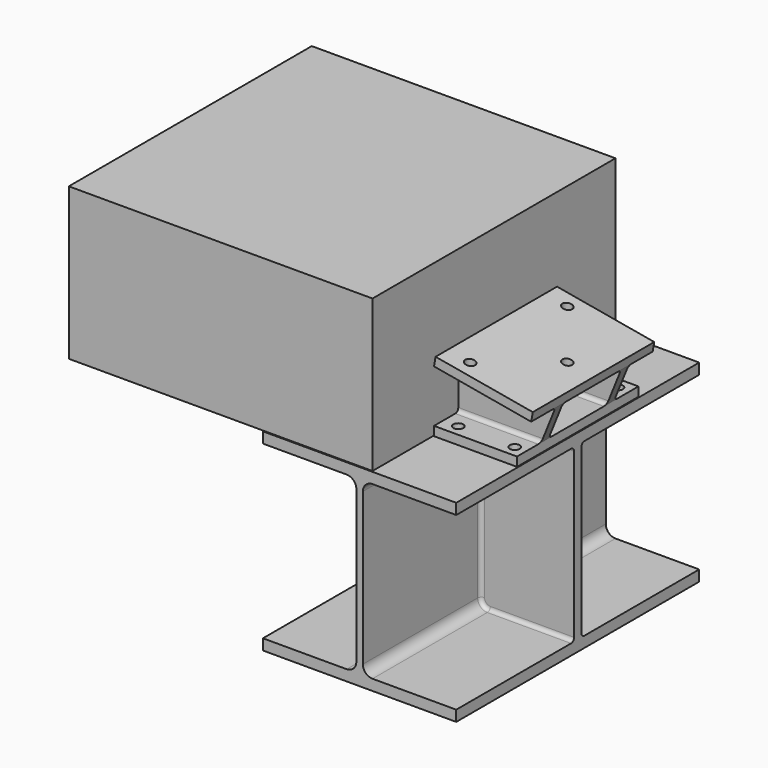
from build123d import *

# Parameters (mm, degrees)
F1_DEPTH  = 400
F3_W      = 400
F3_H      = 400
F4_DEPTH  = 200
F5_W      = 109.3
F5_H      = 200
F6_DEPTH  = 12
F8_D      = 13.2
F8_DEPTH  = 12
F8_TIP    = 3.9656800856
F10_D     = 13.2
F10_DEPTH = 20
F10_TIP   = 3.9656800856
F15_DEPTH = 12
F16_W     = 130
F16_H     = 40
F16_H_2   = 12
F16_H_3   = 148
F17_DEPTH = 12
F18_R     = 5
F21_DEPTH = 6
F22_R     = 5
F24_D     = 13.2
F24_DEPTH = 12
F24_TIP   = 3.9656800856


with BuildPart() as f1:
    # F0 (on Front) → F1 (new body)
    with BuildSketch(Plane.XZ):
        with BuildLine():
            Line((127.3, 112.85), (127.3, 127.05))
            Line((127.3, 127.05), (-127.3, 127.05))
            Line((-127.3, 127.05), (-127.3, 112.85))
            Line((-127.3, 112.85), (-17, 112.85))
            ThreePointArc((-17, 112.85), (-8.0197438789, 109.1302561211), (-4.3, 100.15))
            Line((-4.3, 100.15), (-4.3, -100.15))
            ThreePointArc((-4.3, -100.15), (-8.0197438789, -109.1302561211), (-17, -112.85))
            Line((-17, -112.85), (-127.3, -112.85))
            Line((-127.3, -112.85), (-127.3, -127.05))
            Line((-127.3, -127.05), (127.3, -127.05))
            Line((127.3, -127.05), (127.3, -112.85))
            Line((127.3, -112.85), (17, -112.85))
            ThreePointArc((17, -112.85), (8.0197438789, -109.1302561211), (4.3, -100.15))
            Line((4.3, -100.15), (4.3, 100.15))
            ThreePointArc((4.3, 100.15), (8.0197438789, 109.1302561211), (17, 112.85))
            Line((17, 112.85), (127.3, 112.85))
        make_face()
    extrude(amount=F1_DEPTH)

    # F10
    with Locations(Plane.XY.offset(127.05)):
        with Locations((38, -285), (38, -115), (112.3, -285), (112.3, -115)):
            Hole(F10_D / 2, depth=F10_DEPTH)
            with Locations((0, 0, -(F10_DEPTH + F10_TIP / 2))):  # 118° drill point
                Cone(0, F10_D / 2, F10_TIP, mode=Mode.SUBTRACT)

    # F20 (on mid) → F21 (join, symmetric)
    with BuildSketch(Plane(origin=(0, -200, 0), x_dir=(-1, 0, 0), z_dir=(0, 1, 0))):
        with BuildLine():
            Line((-17, 112.85), (-127.3, 112.85))
            Line((-127.3, 112.85), (-127.3, -112.85))
            Line((-127.3, -112.85), (-17, -112.85))
            ThreePointArc((-17, -112.85), (-8.0197438789, -109.1302561211), (-4.3, -100.15))
            Line((-4.3, -100.15), (-4.3, 100.15))
            ThreePointArc((-4.3, 100.15), (-8.0197438789, 109.1302561211), (-17, 112.85))
        make_face()
    extrude(amount=F21_DEPTH, both=True)

    # F22
    f22_edges = [f1.edges().sort_by_distance(p)[0] for p in [
        (72.15, -194, 112.85),
        (4.3, -206, 0),
    ]]
    fillet(f22_edges, radius=F22_R)


with BuildPart() as f4:
    # F3 (on offset) → F4 (new body)
    with BuildSketch(Plane.XY.offset(128.05)):
        with Locations((-183, -200)):
            Rectangle(F3_W, F3_H)
    extrude(amount=F4_DEPTH)


with BuildPart() as f6:
    # F5 (on offset) → F6 (new body)
    with BuildSketch(Plane.XY.offset(128.05)):
        with Locations((72.65, -200)):
            Rectangle(F5_W, F5_H)
    extrude(amount=F6_DEPTH)

    # F8
    with Locations(Plane.XY.offset(140.05)):
        with Locations((38, -285), (112.3, -285), (38, -115), (112.3, -115)):
            Hole(F8_D / 2, depth=F8_DEPTH)
            with Locations((0, 0, -(F8_DEPTH + F8_TIP / 2))):  # 118° drill point
                Cone(0, F8_D / 2, F8_TIP, mode=Mode.SUBTRACT)

    # F12 (on offset) + F14 (on offset) → F15 (join)
    with BuildSketch(Plane(origin=(0, -152, 0), x_dir=(-1, 0, 0), z_dir=(0, 1, 0))):
        Polygon((-127.3, 140.05), (-18, 140.05), (-18, 209.05), (-146.0250078916, 186.4757369033), align=None)
    with BuildSketch(Plane.XZ.offset(260)):
        Polygon((18, 209.05), (18, 140.05), (127.3, 140.05), (146.0250078916, 186.4757369033), align=None)
    extrude(amount=F15_DEPTH, dir=(0, 1, 0))

    # F16 (on face) → F17 (join)
    with BuildSketch(Plane(origin=(36.292421894, 0, 205.8245524776), x_dir=(0.984807753, 0, -0.1736481777), z_dir=(0.1736481777, 0, 0.984807753))):
        with Locations((46.4253880129, -280)):
            Rectangle(F16_W, F16_H)
        with Locations((46.4253880129, -254)):
            Rectangle(F16_W, F16_H_2)
        with Locations((46.4253880129, -174)):
            Rectangle(F16_W, F16_H_3)
    extrude(amount=F17_DEPTH)

    # F18
    f18_edges = [f6.edges().sort_by_distance(p)[0] for p in [
        (72.65, -260, 140.05),
        (72.65, -248, 140.05),
        (72.65, -140, 140.05),
        (72.65, -152, 140.05),
        (82.012504, -260, 197.762868),
        (82.012504, -248, 197.762868),
        (82.012504, -140, 197.762868),
        (82.012504, -152, 197.762868),
    ]]
    fillet(f18_edges, radius=F18_R)

    # F24
    with Locations(Plane(origin=(38.376200026, 0, 217.6422455137), x_dir=(0.984807753, 0, -0.1736481777), z_dir=(0.1736481777, 0, 0.984807753))):
        with Locations((76.4253880129, -200), (11.4253880129, -280), (11.4253880129, -120)):
            Hole(F24_D / 2, depth=F24_DEPTH)
            with Locations((0, 0, -(F24_DEPTH + F24_TIP / 2))):  # 118° drill point
                Cone(0, F24_D / 2, F24_TIP, mode=Mode.SUBTRACT)


solid = Compound([f1.part, f4.part, f6.part])
